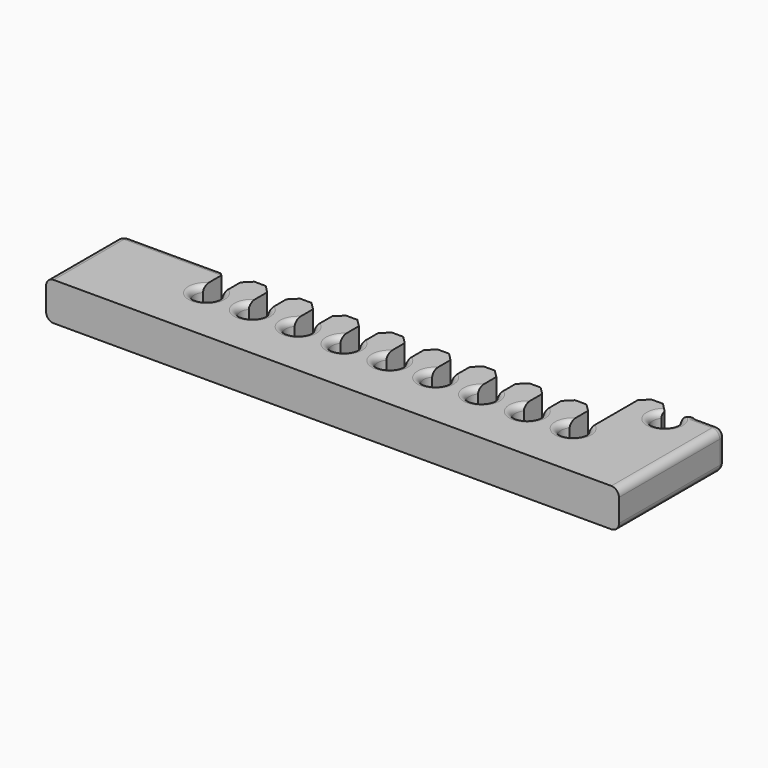
from build123d import *

# Parameters (mm, degrees)
PAD_DEPTH    = 10
CHAMFER_SIZE = 2
FILLET_R     = 1.5
FILLET001_R  = 2


with BuildPart() as part:
    # Sketch → Pad (new body)
    with BuildSketch(Plane.XY):
        with BuildLine():
            ThreePointArc((27.502001, 17), (30, 11.8), (32.497999, 17))
            Line((32.497999, 17), (32.497999, 25))
            Line((32.497999, 25), (39.502001, 25))
            Line((39.502001, 17), (39.502001, 25))
            ThreePointArc((39.502001, 17), (42, 11.8), (44.497999, 17))
            Line((44.497999, 17), (44.497999, 25))
            Line((44.497999, 25), (51.502001, 25))
            Line((51.502001, 17), (51.502001, 25))
            ThreePointArc((51.502001, 17), (54, 11.8), (56.497999, 17))
            Line((56.497999, 17), (56.497999, 25))
            Line((56.497999, 25), (63.502001, 25))
            Line((63.502001, 17), (63.502001, 25))
            ThreePointArc((63.502001, 17), (66, 11.8), (68.497999, 17))
            Line((68.497999, 17), (68.497999, 25))
            Line((68.497999, 25), (75.502001, 25))
            Line((75.502001, 17), (75.502001, 25))
            ThreePointArc((75.502001, 17), (78, 11.8), (80.497999, 17))
            Line((80.497999, 17), (80.497999, 25))
            Line((80.497999, 25), (87.502001, 25))
            Line((87.502001, 17), (87.502001, 25))
            ThreePointArc((87.502001, 17), (90, 11.8), (92.497999, 17))
            Line((92.497999, 17), (92.497999, 25))
            Line((92.497999, 25), (99.502001, 25))
            Line((99.502001, 17), (99.502001, 25))
            ThreePointArc((99.502001, 17), (102, 11.8), (104.497999, 17))
            Line((104.497999, 17), (104.497999, 25))
            Line((104.497999, 25), (111.502001, 25))
            Line((111.502001, 17), (111.502001, 25))
            ThreePointArc((111.502001, 17), (114, 11.8), (116.497999, 17))
            Line((116.497999, 17), (116.497999, 25))
            Line((116.497999, 25), (123.502001, 25))
            Line((123.502001, 17), (123.502001, 25))
            ThreePointArc((123.502001, 17), (126, 11.8), (128.497999, 17))
            Line((128.497999, 17), (128.497999, 35))
            Line((128.497999, 35), (135.502001, 35))
            Line((135.502001, 35), (135.502001, 32))
            ThreePointArc((135.502001, 32), (138, 26.8), (140.497999, 32))
            Line((140.497999, 35), (140.497999, 32))
            Line((140.497999, 35), (150, 35))
            Line((150, 35), (150, 0))
            Line((0, 0), (150, 0))
            Line((0, 0), (0, 25))
            Line((0, 25), (27.502001, 25))
            Line((27.502001, 17), (27.502001, 25))
        make_face()
    extrude(amount=PAD_DEPTH)

    # Chamfer
    chamfer_edges = [part.edges().sort_by_distance(p)[0] for p in [
        (27.502001, 25, 5),
        (32.497999, 25, 5),
        (39.502001, 25, 5),
        (44.497999, 25, 5),
        (51.502001, 25, 5),
        (56.497999, 25, 5),
        (63.502001, 25, 5),
        (68.497999, 25, 5),
        (75.502001, 25, 5),
        (80.497999, 25, 5),
        (87.502001, 25, 5),
        (92.497999, 25, 5),
        (99.502001, 25, 5),
        (104.497999, 25, 5),
        (111.502001, 25, 5),
        (116.497999, 25, 5),
        (123.502001, 25, 5),
        (128.497999, 35, 5),
        (135.502001, 35, 5),
        (140.497999, 35, 5),
    ]]
    chamfer(chamfer_edges, length=CHAMFER_SIZE)

    # Fillet
    fillet_edges = [part.edges().sort_by_distance(p)[0] for p in [
        (30, 11.8, 10),
        (42, 11.8, 10),
        (54, 11.8, 10),
        (66, 11.8, 10),
        (78, 11.8, 10),
        (90, 11.8, 10),
        (102, 11.8, 10),
        (114, 11.8, 10),
        (126, 11.8, 10),
        (138, 26.8, 10),
        (138, 26.8, 0),
        (126, 11.8, 0),
        (114, 11.8, 0),
        (102, 11.8, 0),
        (90, 11.8, 0),
        (78, 11.8, 0),
        (66, 11.8, 0),
        (54, 11.8, 0),
        (42, 11.8, 0),
        (30, 11.8, 0),
    ]]
    fillet(fillet_edges, radius=FILLET_R)

    # Fillet001
    fillet001_edges = [part.edges().sort_by_distance(p)[0] for p in [
        (12.751, 25, 10),
        (12.751, 25, 0),
        (0, 25, 5),
        (146.249, 35, 0),
        (150, 35, 5),
        (146.249, 35, 10),
        (0, 12.5, 10),
        (0, 12.5, 0),
        (150, 17.5, 10),
        (150, 17.5, 0),
    ]]
    fillet(fillet001_edges, radius=FILLET001_R)


solid = part.part
